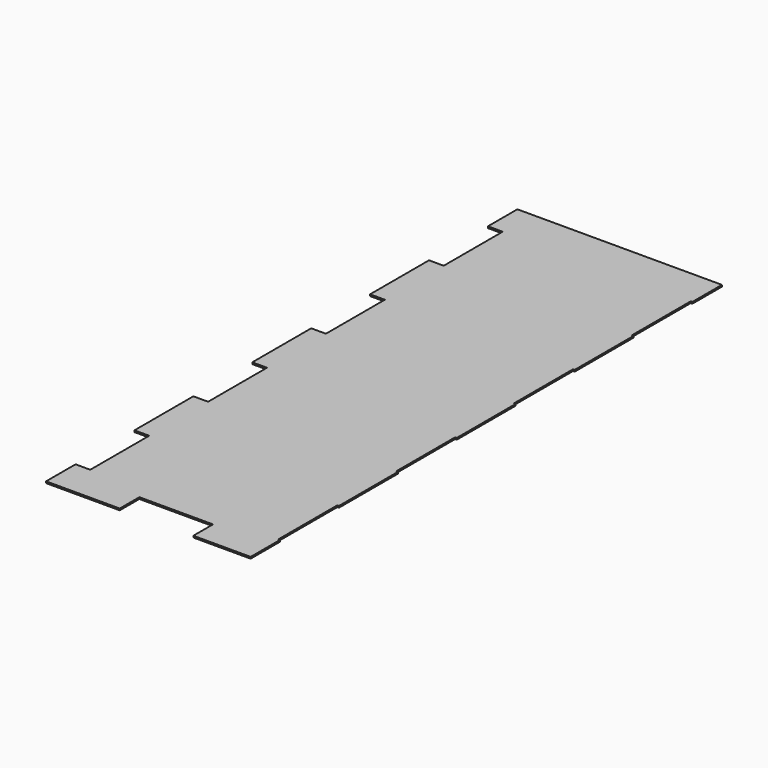
from build123d import *

# Parameters (mm, degrees)
BOX012_W         = 9
BOX012_H         = 45
BOX012_DEPTH     = 1
ARRAY001_Y_COUNT = 4
ARRAY001_Y_PITCH = 90
BOX011_W         = 1
BOX011_H         = 45
BOX011_DEPTH     = 1
ARRAY002_Y_COUNT = 4
ARRAY002_Y_PITCH = 90
BOX009_W         = 45
BOX009_H         = 15
BOX009_DEPTH     = 1
BOX008_W         = 125
BOX008_H         = 360
BOX008_DEPTH     = 1


with BuildPart() as array001:
    # Box012 → Box012 (new body)
    with BuildSketch(Plane(origin=(-125, 0, 0), x_dir=(1, 0, 0), z_dir=(0, 0, 1))):
        with Locations((4.5, 22.5)):
            Rectangle(BOX012_W, BOX012_H)
    extrude(amount=BOX012_DEPTH)

    # Array001 Y: Array001 ×4


with BuildPart() as array001_1:
    add(array001.part)
    with Locations(*[(0, i * ARRAY001_Y_PITCH, 0) for i in range(1, ARRAY001_Y_COUNT)]):
        add(array001.part)


with BuildPart() as array001_2:
    # Array001 placement: moved
    add(array001_1.part.moved(Location((0, 22.5, 0))))


with BuildPart() as array002:
    # Box011 → Box011 (new body)
    with BuildSketch(Plane(origin=(-1, 0, 0), x_dir=(1, 0, 0), z_dir=(0, 0, 1))):
        with Locations((0.5, 22.5)):
            Rectangle(BOX011_W, BOX011_H)
    extrude(amount=BOX011_DEPTH)

    # Array002 Y: Array002 ×4


with BuildPart() as array002_1:
    add(array002.part)
    with Locations(*[(0, i * ARRAY002_Y_PITCH, 0) for i in range(1, ARRAY002_Y_COUNT)]):
        add(array002.part)


with BuildPart() as array002_2:
    # Array002 placement: moved
    add(array002_1.part.moved(Location((0, 22.5, 0))))


with BuildPart() as box009:
    # Box009 → Box009 (new body)
    with BuildSketch(Plane(origin=(-80, 0, 0), x_dir=(1, 0, 0), z_dir=(0, 0, 1))):
        with Locations((22.5, 7.5)):
            Rectangle(BOX009_W, BOX009_H)
    extrude(amount=BOX009_DEPTH)


with BuildPart() as cut002008:
    # Box008 → Box008 (new body)
    with BuildSketch(Plane(origin=(-125, 0, 0), x_dir=(1, 0, 0), z_dir=(0, 0, 1))):
        with Locations((62.5, 180)):
            Rectangle(BOX008_W, BOX008_H)
    extrude(amount=BOX008_DEPTH)

    # Cut002006: cut Box009
    add(box009.part, mode=Mode.SUBTRACT)

    # Cut002007: cut Array002
    add(array002_2.part, mode=Mode.SUBTRACT)

    # Cut002008: cut Array001
    add(array001_2.part, mode=Mode.SUBTRACT)


solid = cut002008.part
